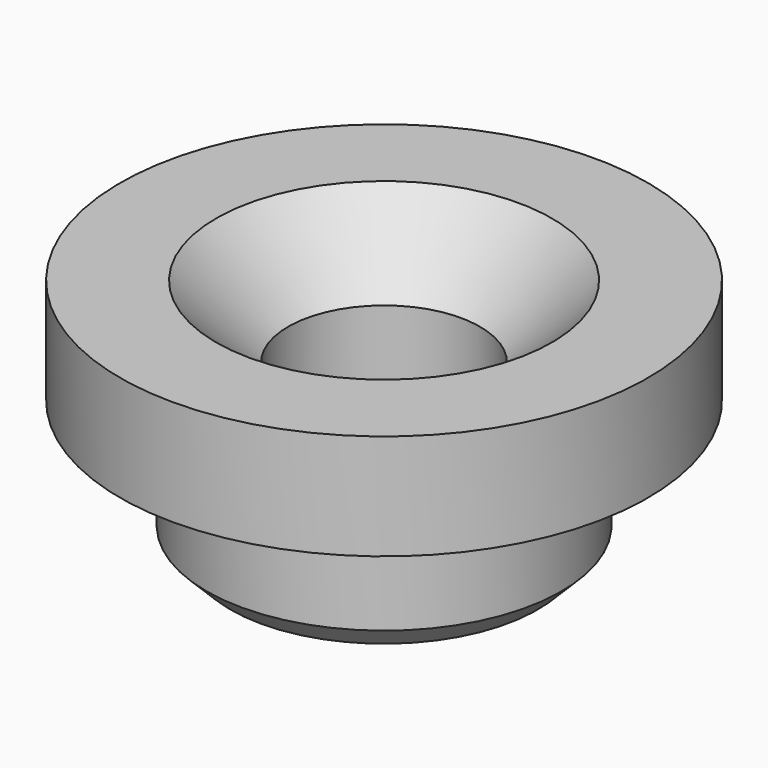
from build123d import *

# Parameters (mm, degrees)
F2_SIZE = 1.5
F3_SIZE = 0.5


with BuildPart() as f1:
    # F0 (on Right) → F1 (revolve)
    with BuildSketch(Plane.YZ):
        Polygon((-3.7, 0), (-2, 0), (-2, 5), (-5.5, 5), (-5.5, 2.8), (-3.7, 2.8), align=None)
    revolve(axis=Axis((0, 0, 4.618393), (0, 0, 1)))

    # F2
    f2_edges = [f1.edges().sort_by_distance(p)[0] for p in [
        (0, 2, 5),
    ]]
    chamfer(f2_edges, length=F2_SIZE)

    # F3
    f3_edges = [f1.edges().sort_by_distance(p)[0] for p in [
        (0, 3.7, 0),
    ]]
    chamfer(f3_edges, length=F3_SIZE)


solid = f1.part
